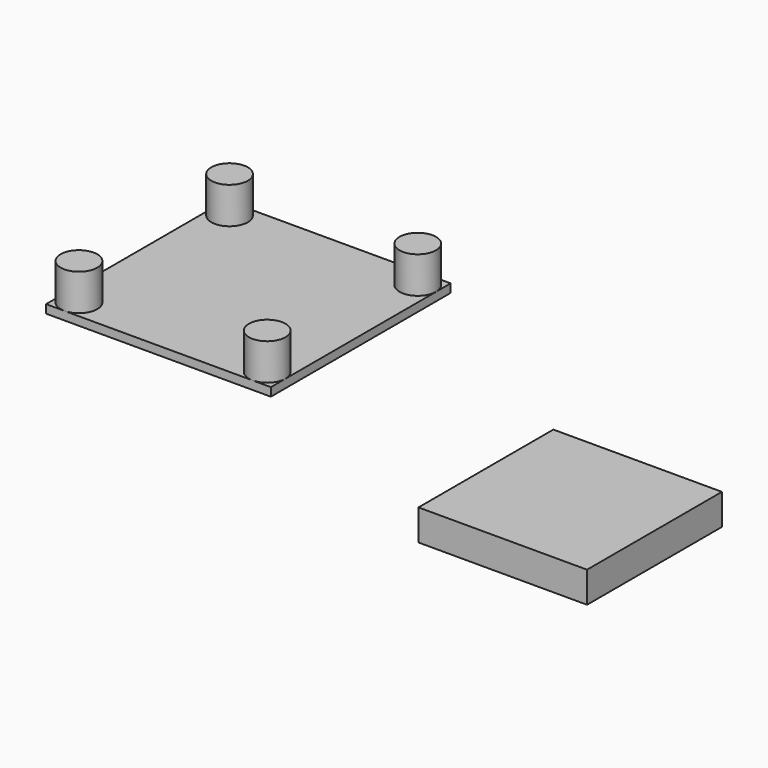
from build123d import *

# Parameters (mm, degrees)
F0_W     = 20.32
F0_H     = 20.32
F1_DEPTH = 0.762
F2_R     = 1.651
F3_DEPTH = 3.302
F4_W     = 15.24
F4_H     = 15.24
F5_DEPTH = 2.794


with BuildPart() as f1:
    # F0 (on Top) → F1 (new body)
    with BuildSketch(Plane.XY):
        with Locations((-45.121097, 43.575563)):
            Rectangle(F0_W, F0_H)
    extrude(amount=F1_DEPTH)


with BuildPart() as f3:
    # F2 (on face) → F3 (new body)
    with BuildSketch(Plane.XY.offset(0.762)):
        with Locations((-36.612097, 52.084563)):
            Circle(F2_R)
        with Locations((-53.630097, 52.084563)):
            Circle(F2_R)
        with Locations((-53.630097, 35.066563)):
            Circle(F2_R)
        with Locations((-36.612097, 35.066563)):
            Circle(F2_R)
    extrude(amount=F3_DEPTH)


with BuildPart() as f5:
    # F4 (on Top) → F5 (new body)
    with BuildSketch(Plane.XY):
        with Locations((-5.279684, 30.141513)):
            Rectangle(F4_W, F4_H)
    extrude(amount=F5_DEPTH)


solid = Compound([f1.part, f3.part, f5.part])
